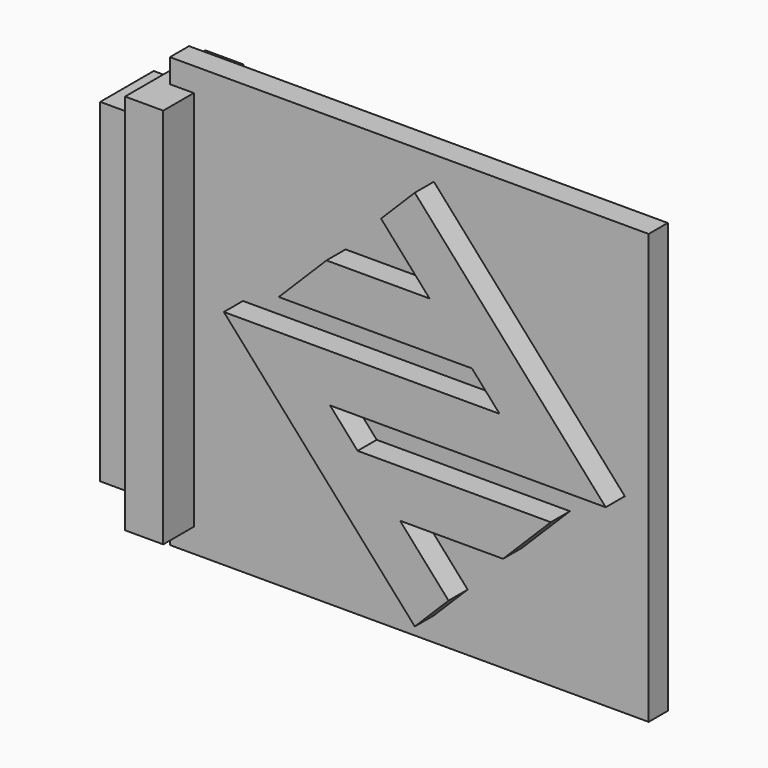
from build123d import *

# Parameters (mm, degrees)
F1_DEPTH  = 25
F2_W      = 80
F2_H      = 800
F3_DEPTH  = 80
F5_W      = 30
F5_H      = 50
F6_DEPTH  = 800
F8_DEPTH  = 50
F11_W     = 140
F11_H     = 700
F12_DEPTH = 80


with BuildPart() as f1:
    # F0 (on Front) → F1 (new body, symmetric)
    with BuildSketch(Plane.XZ):
        Polygon((450, 450), (-450, 450), (-553, 450), (-553, -450), (-450, -450), (450, -450), align=None)
    extrude(amount=F1_DEPTH, both=True)


with BuildPart() as f3:
    # F2 (on face) → F3 (new body)
    with BuildSketch(Plane.XZ.offset(25)):
        with Locations((-543, 0)):
            Rectangle(F2_W, F2_H)
    extrude(amount=F3_DEPTH)


with BuildPart() as f4_1:
    # F4: instance of F3
    add(f3.part.mirror(Plane.XZ))


with BuildPart() as f3_1:
    add(f3.part)

    add(f4_1.part)  # F6 merges F4_1
    # F5 (on face) → F6 (join, through all)
    with BuildSketch(Plane.XY.offset(400)):
        with Locations((-568, 0)):
            Rectangle(F5_W, F5_H)
    extrude(amount=-F6_DEPTH)


with BuildPart() as f8:
    # F7 (on face) → F8 (new body)
    with BuildSketch(Plane.XZ.offset(25)):
        Polygon((-400, 50), (0, -400), (70.7106781187, -329.2893218813), (-30.8798302203, -215), (185, -215), (285, -115), (-119.7687191092, -115), (-177.546496887, -50), (400, -50), (0, 400), (-70.7106781187, 329.2893218813), (30.8798302203, 215), (-185, 215), (-285, 115), (119.7687191092, 115), (177.546496887, 50), align=None)
    extrude(amount=F8_DEPTH)


with BuildPart() as f9_1:
    # F9: instance of F8
    add(f8.part.mirror(Plane.XZ))


with BuildPart() as f10_1:
    # F10: instance of F9_1
    add(f9_1.part.mirror(Plane.YZ))


with BuildPart() as f12:
    # F11 (on face) → F12 (new body)
    with BuildSketch(Plane(origin=(-583, 0, 0), x_dir=(0, -1, 0), z_dir=(-1, 0, 0))):
        Rectangle(F11_W, F11_H)
    extrude(amount=F12_DEPTH)


solid = Compound([f1.part, f3_1.part, f8.part, f9_1.part, f10_1.part, f12.part])
